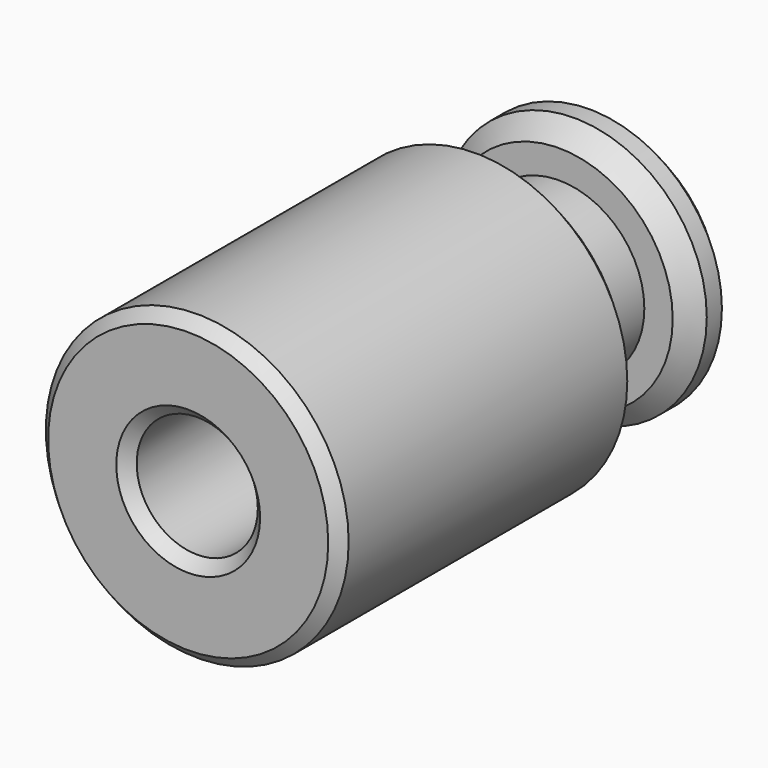
from build123d import *

# Parameters (mm, degrees)
SKETCH_R        = 4
PAD_DEPTH       = 10
SKETCH001_R     = 2.25
PAD001_DEPTH    = 2.25
SKETCH002_R     = 3.5
PAD002_DEPTH    = 1.5
CHAMFER_SIZE    = 0.5
SKETCH003_R     = 1.6
POCKET_DEPTH    = 8
CHAMFER001_SIZE = 0.3
CHAMFER002_SIZE = 0.4


with BuildPart() as part:
    # Sketch → Pad (new body)
    with BuildSketch(Plane.XZ):
        Circle(SKETCH_R)
    extrude(amount=PAD_DEPTH)

    # Sketch001 → Pad001 (join)
    with BuildSketch(Plane.XZ):
        Circle(SKETCH001_R)
    extrude(amount=-PAD001_DEPTH)

    # Sketch002 (on Face5 of Pad001) → Pad002 (join)
    with BuildSketch(Plane(origin=(0, 2.25, 0), x_dir=(1, 0, 0), z_dir=(0, 1, 0))):
        Circle(SKETCH002_R)
    extrude(amount=PAD002_DEPTH)

    # Chamfer
    chamfer_edges = [part.edges().sort_by_distance(p)[0] for p in [
        (-3.5, 3.75, 0),
        (-3.5, 2.25, 0),
        (-4, 0, 0),
    ]]
    chamfer(chamfer_edges, length=CHAMFER_SIZE)

    # Sketch003 (on Face3 of Chamfer) → Pocket (cut)
    with BuildSketch(Plane.XZ.offset(10)):
        Circle(SKETCH003_R)
    extrude(amount=-POCKET_DEPTH, mode=Mode.SUBTRACT)

    # Chamfer001
    chamfer001_edges = [part.edges().sort_by_distance(p)[0] for p in [
        (-4, -10, 0),
        (-1.6, -10, 0),
    ]]
    chamfer(chamfer001_edges, length=CHAMFER001_SIZE)

    # Chamfer002
    chamfer002_edges = [part.edges().sort_by_distance(p)[0] for p in [
        (-1.6, -2, 0),
    ]]
    chamfer(chamfer002_edges, length=CHAMFER002_SIZE)


solid = part.part
